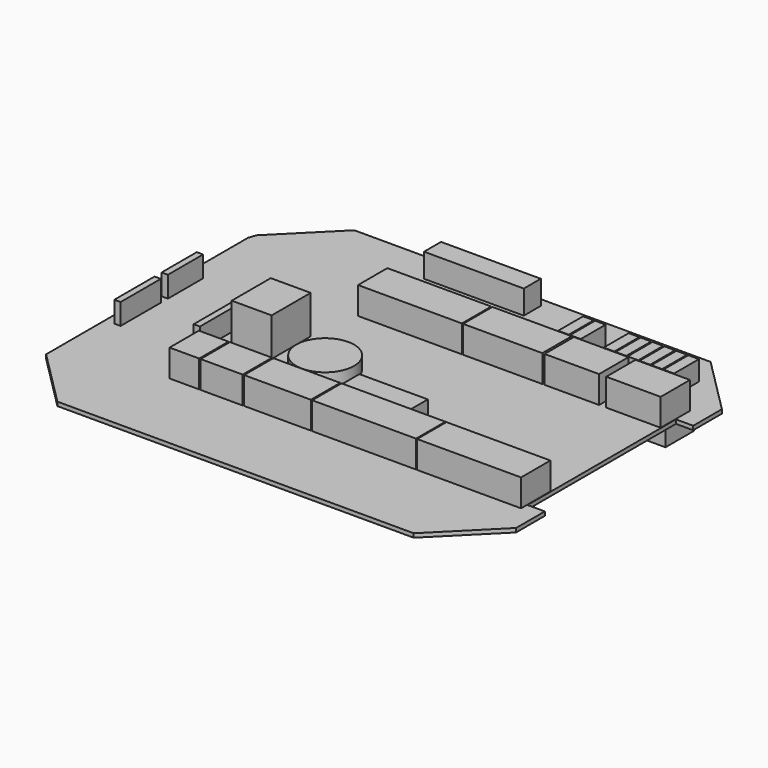
from build123d import *

# Parameters (mm, degrees)
F1_DEPTH  = 1.599999
F2_W      = 41.9862
F2_H      = 8.6106
F2_H_2    = 6.1976
F2_W_2    = 32.0294
F2_W_3    = 22.0218
F2_W_4    = 21.9964
F2_W_5    = 42.0116
F2_W_6    = 27.0002
F2_H_3    = 8.5852
F2_W_7    = 17.018
F2_H_4    = 14.8082
F3_DEPTH  = 11
F2_R      = 11.68583
F4_DEPTH  = 4.953
F5_DEPTH  = 15.49
F2_W_8    = 4.2926
F2_H_5    = 12.5984
F6_DEPTH  = 8
F7_DEPTH  = 9.652
F2_W_9    = 2.54
F2_H_6    = 17.78
F2_H_7    = 20.32
F2_H_8    = 38.608
F8_DEPTH  = 8.5
F9_W      = 8.0264
F9_H      = 14.478
F9_W_2    = 8.0772
F9_W_3    = 8.0518
F9_H_2    = 14.5034
F10_DEPTH = 8.85
F9_W_4    = 2.54
F9_H_3    = 3.556
F11_DEPTH = 5
F12_DEPTH = 10
F13_DEPTH = 5


with BuildPart() as f1:
    # F0 (on Top) → F1 (new body)
    with BuildSketch(Plane.XY):
        Polygon((-94.996, -46.99), (-92.964, -46.99), (-92.71, -46.9646), (-92.456, -46.9138), (-92.2274, -46.8122), (-92.0242, -46.6852), (-91.8464, -46.5074), (-91.694, -46.3296), (-91.4908, -45.8724), (-91.4654, -45.6184), (-91.4654, -45.3644), (-91.4908, -45.1358), (-91.5924, -44.8818), (-91.694, -44.6786), (-91.8464, -44.5008), (-92.0242, -44.323), (-92.2274, -44.1706), (-92.456, -44.0944), (-92.71, -44.0182), (-92.964, -43.9928), (-94.996, -43.9928), align=None)
        Polygon((-92.71, -46.9646), (-92.964, -46.99), (-94.996, -46.99), (-94.996, -51.9938), (-72.009, -75.0062), (72.009, -75.0062), (94.996, -51.9938), (94.996, -37.4904), (88.011, -37.4904), (88.011, 37.4904), (94.996, 37.4904), (94.996, 51.9938), (72.009, 75.0062), (-72.009, 75.0062), (-94.0054, 53.0098), (-94.996, 50.0126), (-94.996, -43.9928), (-92.964, -43.9928), (-92.71, -44.0182), (-92.456, -44.0944), (-92.2274, -44.1706), (-92.0242, -44.323), (-91.8464, -44.5008), (-91.694, -44.6786), (-91.5924, -44.8818), (-91.4908, -45.1358), (-91.4654, -45.3644), (-91.4654, -45.6184), (-91.4908, -45.8724), (-91.694, -46.3296), (-91.8464, -46.5074), (-92.0242, -46.6852), (-92.2274, -46.8122), (-92.456, -46.9138), align=None)
    extrude(amount=F1_DEPTH)

    # F2 (on face) → F3 (join)
    with BuildSketch(Plane.XY.offset(1.599999)):
        with Locations((-13.5001, 40.5003)):
            Rectangle(F2_W, F2_H)
        with Locations((-13.5001, 33.0962)):
            Rectangle(F2_W, F2_H_2)
        with Locations((23.9903, 40.5003)):
            Rectangle(F2_W_2, F2_H)
        with Locations((23.9903, 33.0962)):
            Rectangle(F2_W_2, F2_H_2)
        with Locations((51.9303, 40.5003)):
            Rectangle(F2_W_3, F2_H)
        with Locations((51.9303, 33.0962)):
            Rectangle(F2_W_3, F2_H_2)
        with Locations((76.835, 40.5003)):
            Rectangle(F2_W_4, F2_H)
        with Locations((66.8274, -30.0355)):
            Rectangle(F2_W_5, F2_H)
        with Locations((66.8274, -37.4396)):
            Rectangle(F2_W_5, F2_H_2)
        with Locations((24.3967, -30.0355)):
            Rectangle(F2_W, F2_H)
        with Locations((24.3967, -37.4396)):
            Rectangle(F2_W, F2_H_2)
        with Locations((-10.6299, -30.0228)):
            Rectangle(F2_W_6, F2_H_3)
        with Locations((-10.6299, -37.4142)):
            Rectangle(F2_W_6, F2_H_2)
        Polygon((-54.2544, -34.3408), (-54.2544, -40.5384), (-42.2656, -40.5384), (-42.2656, -25.7302), (-54.2544, -25.7302), align=None)
        with Locations((-33.1978, -33.1343)):
            Rectangle(F2_W_7, F2_H_4)
        with Locations((76.835, 33.0962)):
            Rectangle(F2_W_4, F2_H_2)
    extrude(amount=F3_DEPTH)

    # F2 (on face) → F4 (join)
    with BuildSketch(Plane.XY.offset(1.599999)):
        with Locations((-19.871278, -4.901506)):
            Circle(F2_R)
    extrude(amount=F4_DEPTH)

    # F2 (on face) → F5 (join)
    with BuildSketch(Plane.XY.offset(1.599999)):
        Polygon((-37.4396, 9.7536), (-53.5686, 9.7536), (-53.5686, -9.9822), (-37.4396, -9.9568), align=None)
    extrude(amount=F5_DEPTH)

    # F2 (on face) → F6 (join)
    with BuildSketch(Plane.XY.offset(1.599999)):
        with Locations((32.8803, 55.88)):
            Rectangle(F2_W_8, F2_H_5)
        with Locations((37.7063, 55.88)):
            Rectangle(F2_W_8, F2_H_5)
        with Locations((51.2953, 55.88)):
            Rectangle(F2_W_8, F2_H_5)
        with Locations((56.1213, 55.88)):
            Rectangle(F2_W_8, F2_H_5)
        with Locations((60.9473, 55.88)):
            Rectangle(F2_W_8, F2_H_5)
        with Locations((65.7733, 55.88)):
            Rectangle(F2_W_8, F2_H_5)
        with Locations((70.5993, 55.88)):
            Rectangle(F2_W_8, F2_H_5)
        with Locations((75.4253, 55.88)):
            Rectangle(F2_W_8, F2_H_5)
    extrude(amount=F6_DEPTH)

    # F2 (on face) → F7 (join)
    with BuildSketch(Plane.XY.offset(1.599999)):
        Polygon((-34.0868, 71.4248), (-34.0868, 62.8396), (-30.7086, 62.8396), (2.8448, 62.8396), (6.2484, 62.8396), (6.2484, 71.4248), (2.8194, 71.4248), (-30.7086, 71.4248), align=None)
        Polygon((2.2606, -15.2654), (2.2606, -23.8506), (5.5372, -23.8506), (26.7716, -23.8506), (29.9212, -23.8506), (29.9212, -15.2654), (26.7462, -15.2654), (5.6642, -15.2654), align=None)
    extrude(amount=F7_DEPTH)

    # F2 (on face) → F8 (join)
    with BuildSketch(Plane.XY.offset(1.599999)):
        with Locations((-90.0176, 10.6426)):
            Rectangle(F2_W_9, F2_H_6)
        with Locations((-90.0176, -11.9888)):
            Rectangle(F2_W_9, F2_H_7)
        with Locations((-60.0202, -0.254)):
            Rectangle(F2_W_9, F2_H_8)
    extrude(amount=F8_DEPTH)

    # F9 (on face) → F10 (join)
    with BuildSketch(Plane(origin=(0, 0, 0), x_dir=(1, 0, 0), z_dir=(0, 0, -1))):
        with Locations((10.0838, -17.653)):
            Rectangle(F9_W, F9_H)
        with Locations((22.3012, -17.653)):
            Rectangle(F9_W_2, F9_H)
        with Locations((15.7861, -43.4213)):
            Rectangle(F9_W_3, F9_H_2)
        with Locations((27.4574, -43.4213)):
            Rectangle(F9_W, F9_H_2)
        with Locations((40.6781, -57.785)):
            Rectangle(F9_W_3, F9_H)
        with Locations((55.3974, -43.4213)):
            Rectangle(F9_W, F9_H_2)
        with Locations((68.0974, -43.4213)):
            Rectangle(F9_W, F9_H_2)
        with Locations((80.8101, -43.4213)):
            Rectangle(F9_W_3, F9_H_2)
    extrude(amount=F10_DEPTH)

    # F9 (on face) → F11 (join)
    with BuildSketch(Plane(origin=(0, 0, 0), x_dir=(1, 0, 0), z_dir=(0, 0, -1))):
        Polygon((-77.9018, -48.4632), (-71.247, -48.4632), (-71.247, -31.1404), (-77.9018, -31.1404), (-81.8896, -31.1404), (-88.5444, -31.1404), (-88.5444, -48.4632), (-81.8896, -48.4632), align=None)
        Polygon((-65.3288, -35.052), (-67.8688, -35.052), (-70.4088, -35.052), (-70.4088, -46.482), (-69.1388, -46.482), (-69.1388, -49.022), (-70.4088, -49.022), (-70.4088, -50.292), (-60.2488, -50.292), (-60.2488, -49.022), (-61.5188, -49.022), (-61.5188, -46.482), (-60.2488, -46.482), (-60.2488, -35.052), (-62.7888, -35.052), align=None)
        with Locations((-64.0588, -33.274)):
            Rectangle(F9_W_4, F9_H_3)
        with Locations((-66.5988, -33.274)):
            Rectangle(F9_W_4, F9_H_3)
    extrude(amount=F11_DEPTH)

    # F9 (on face) → F12 (join)
    with BuildSketch(Plane(origin=(0, 0, 0), x_dir=(1, 0, 0), z_dir=(0, 0, -1))):
        Polygon((-72.136, -0.5588), (-72.1106, -0.3048), (-72.136, -0.0508), (-72.136, 0.2032), (-72.1614, 0.4572), (-72.1868, 0.7112), (-72.2376, 0.9398), (-72.2884, 1.2192), (-72.3646, 1.4478), (-72.4154, 1.7018), (-72.517, 1.9304), (-72.5932, 2.159), (-72.7202, 2.3876), (-72.8218, 2.6162), (-72.9488, 2.8448), (-73.0504, 3.0734), (-73.2028, 3.302), (-73.3552, 3.4798), (-73.5076, 3.7084), (-73.66, 3.8862), (-73.8124, 4.0894), (-73.9902, 4.2672), (-74.168, 4.445), (-74.3712, 4.6228), (-74.549, 4.7752), (-74.7776, 4.9276), (-74.9554, 5.08), (-75.184, 5.207), (-75.4126, 5.334), (-75.6158, 5.461), (-75.8444, 5.588), (-76.073, 5.6642), (-76.327, 5.7912), (-76.5556, 5.8674), (-76.8096, 5.9436), (-77.0382, 6.0198), (-77.2922, 6.0706), (-77.5462, 6.1214), (-77.8002, 6.1468), (-78.0542, 6.1722), (-78.3082, 6.1976), (-78.5368, 6.1976), (-78.8162, 6.1976), (-79.0702, 6.1976), (-79.2988, 6.1468), (-79.5782, 6.1468), (-79.8068, 6.0706), (-80.0608, 6.0198), (-80.3148, 5.969), (-80.5688, 5.9182), (-80.7974, 5.8166), (-81.026, 5.7404), (-81.2546, 5.6388), (-81.4832, 5.5372), (-81.7118, 5.4102), (-81.9404, 5.2832), (-82.1436, 5.1562), (-82.3468, 5.0038), (-82.5754, 4.8768), (-82.7532, 4.699), (-82.9564, 4.5212), (-83.1596, 4.3434), (-83.3374, 4.1656), (-83.4898, 4.0132), (-83.6676, 3.81), (-83.82, 3.6068), (-83.9724, 3.4036), (-84.0994, 3.2004), (-84.2264, 2.9718), (-84.3534, 2.7432), (-84.4804, 2.5146), (-84.582, 2.286), (-84.6582, 2.0574), (-84.7598, 1.8034), (-84.836, 1.5748), (-84.9122, 1.3462), (-84.963, 1.0922), (-85.0138, 0.8382), (-85.0646, 0.5842), (-85.09, 0.3302), (-85.1154, 0.0762), (-85.1154, -0.1778), (-85.1154, -0.4318), (-85.1154, -0.6858), (-85.09, -0.9398), (-85.0646, -1.1938), (-85.0138, -1.4224), (-84.963, -1.6764), (-84.9122, -1.9304), (-84.836, -2.1844), (-84.7598, -2.413), (-84.6582, -2.6416), (-84.582, -2.8956), (-84.4804, -3.1242), (-84.3534, -3.3528), (-84.2264, -3.556), (-84.0994, -3.7846), (-83.9724, -3.9878), (-83.82, -4.191), (-83.6676, -4.3942), (-83.4898, -4.5974), (-83.3374, -4.7752), (-83.1596, -4.953), (-82.9564, -5.1308), (-82.7532, -5.3086), (-82.5754, -5.461), (-82.3468, -5.6134), (-82.169, -5.7404), (-81.9404, -5.8928), (-81.7118, -6.0198), (-81.4832, -6.1214), (-81.2546, -6.223), (-81.026, -6.3246), (-80.7974, -6.4262), (-80.5688, -6.5024), (-80.3148, -6.5786), (-80.0608, -6.6294), (-79.8068, -6.6802), (-79.5782, -6.731), (-79.2988, -6.7564), (-79.0702, -6.7818), (-78.8162, -6.7818), (-78.5368, -6.7818), (-78.3082, -6.7818), (-78.0542, -6.7818), (-77.8002, -6.7564), (-77.5462, -6.7056), (-77.2922, -6.6802), (-77.0382, -6.604), (-76.8096, -6.5532), (-76.5556, -6.477), (-76.327, -6.4008), (-76.073, -6.2738), (-75.8444, -6.1722), (-75.6158, -6.0706), (-75.4126, -5.9436), (-75.184, -5.8166), (-74.9554, -5.6896), (-74.7776, -5.5372), (-74.549, -5.3848), (-74.3712, -5.2324), (-74.168, -5.0546), (-73.9902, -4.8768), (-73.8124, -4.699), (-73.66, -4.4958), (-73.5076, -4.318), (-73.3552, -4.0894), (-73.2028, -3.9116), (-73.0504, -3.683), (-72.9488, -3.4544), (-72.8218, -3.2258), (-72.7202, -2.9972), (-72.5932, -2.7686), (-72.517, -2.54), (-72.4154, -2.286), (-72.3646, -2.0574), (-72.2884, -1.8034), (-72.2376, -1.5494), (-72.1868, -1.2954), (-72.1614, -1.0668), (-72.136, -0.8128), align=None)
    extrude(amount=F12_DEPTH)

    # F9 (on face) → F13 (join)
    with BuildSketch(Plane(origin=(0, 0, 0), x_dir=(1, 0, 0), z_dir=(0, 0, -1))):
        Polygon((-5.4356, 14.097), (-5.4356, 7.3914), (-5.4356, 7.112), (-5.3848, 6.8834), (-5.2832, 6.6294), (-5.1816, 6.3754), (-5.0292, 6.1722), (-4.8514, 5.969), (-2.032, 5.969), (-1.8542, 6.1722), (-1.7018, 6.3754), (-1.6002, 6.6294), (-1.524, 6.8834), (-1.4732, 7.112), (-1.4478, 7.3914), (-1.4478, 14.097), (-1.4732, 14.351), (-1.524, 14.605), (-1.6002, 14.859), (-1.7018, 15.0876), (-1.8542, 15.3162), (-2.032, 15.494), (-4.8514, 15.494), (-5.0292, 15.3162), (-5.1816, 15.0876), (-5.2832, 14.859), (-5.3848, 14.605), (-5.4356, 14.351), align=None)
    extrude(amount=F13_DEPTH)


solid = f1.part
